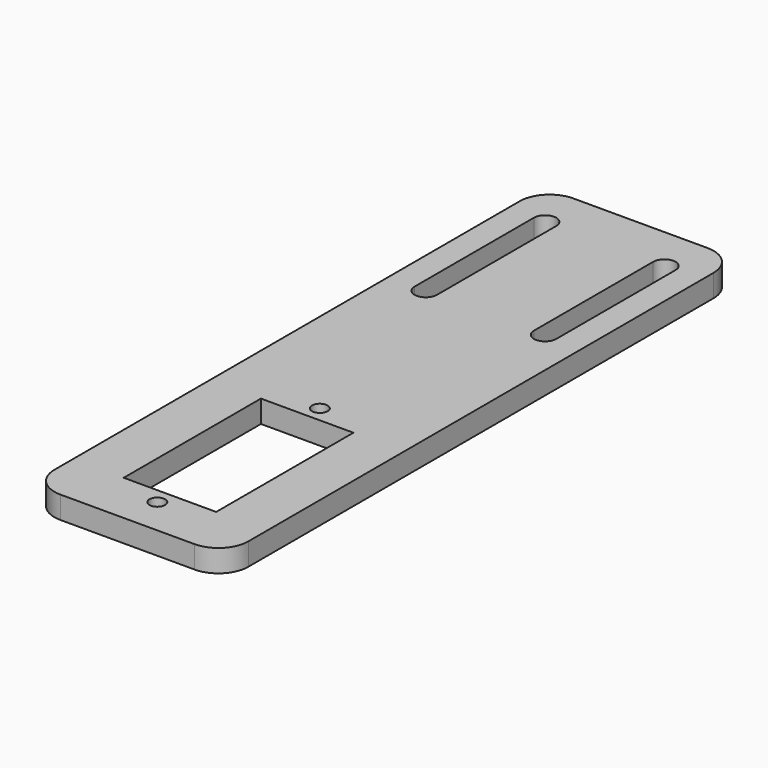
from build123d import *

# Parameters (mm, degrees)
SKETCH_R  = 1.05
SKETCH_W  = 12.4
SKETCH_H  = 23
PAD_DEPTH = 3
FILLET_R  = 4


with BuildPart() as part:
    # Sketch → Pad (new body)
    with BuildSketch(Plane.XY):
        Polygon((13, -50), (13, -74), (-13, -74), (-13, -50), (-13, -20), (-13, 12), (13, 12), (13, -20), align=None)
        with Locations((0, -41.76)):
            Circle(SKETCH_R, mode=Mode.SUBTRACT)
        with Locations((0, -69)):
            Circle(SKETCH_R, mode=Mode.SUBTRACT)
        with Locations((0, -55.38)):
            Rectangle(SKETCH_W, SKETCH_H, mode=Mode.SUBTRACT)
        with BuildLine():
            ThreePointArc((-6.5, 6), (-8, 7.5), (-9.5, 6))
            Line((-9.5, 6), (-9.5, -14))
            ThreePointArc((-9.5, -14), (-8, -15.5), (-6.5, -14))
            Line((-6.5, 6), (-6.5, -14))
        make_face(mode=Mode.SUBTRACT)
        with BuildLine():
            ThreePointArc((9.5, 6), (8, 7.5), (6.5, 6))
            Line((6.5, 6), (6.5, -14))
            ThreePointArc((6.5, -14), (8, -15.5), (9.5, -14))
            Line((9.5, 6), (9.5, -14))
        make_face(mode=Mode.SUBTRACT)
    extrude(amount=PAD_DEPTH)

    # Fillet
    fillet_edges = [part.edges().sort_by_distance(p)[0] for p in [
        (13, -74, 1.5),
        (-13, -74, 1.5),
        (13, 12, 1.5),
        (-13, 12, 1.5),
    ]]
    fillet(fillet_edges, radius=FILLET_R)


solid = part.part
